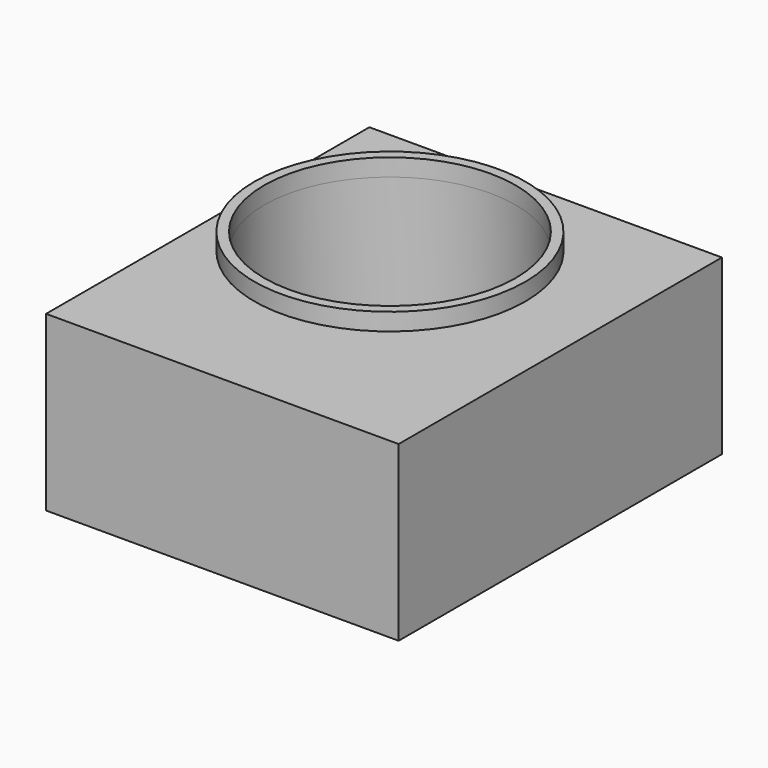
from build123d import *

# Parameters (mm, degrees)
F0_W     = 81.4292449504
F0_H     = 93.3251976967
F1_DEPTH = 40
F2_R     = 29.0333900914
F3_DEPTH = 50
F4_R     = 31.3063799937
F4_R_2   = 29.0333900914
F5_DEPTH = 4


with BuildPart() as f1:
    # F0 (on Top) → F1 (new body)
    with BuildSketch(Plane.XY):
        with Locations((-29.1790282354, -11.1290290952)):
            Rectangle(F0_W, F0_H)
    extrude(amount=F1_DEPTH)

    # F2 (on face) → F3 (cut)
    with BuildSketch(Plane.XY.offset(40)):
        with Locations((-36.7132276297, 0)):
            Circle(F2_R)
    extrude(amount=-F3_DEPTH, mode=Mode.SUBTRACT)

    # F4 (on face) → F5 (join)
    with BuildSketch(Plane.XY.offset(40)):
        with Locations((-36.7132276297, 0)):
            Circle(F4_R)
        with Locations((-36.7132276297, 0)):
            Circle(F4_R_2, mode=Mode.SUBTRACT)
    extrude(amount=F5_DEPTH)


solid = f1.part
